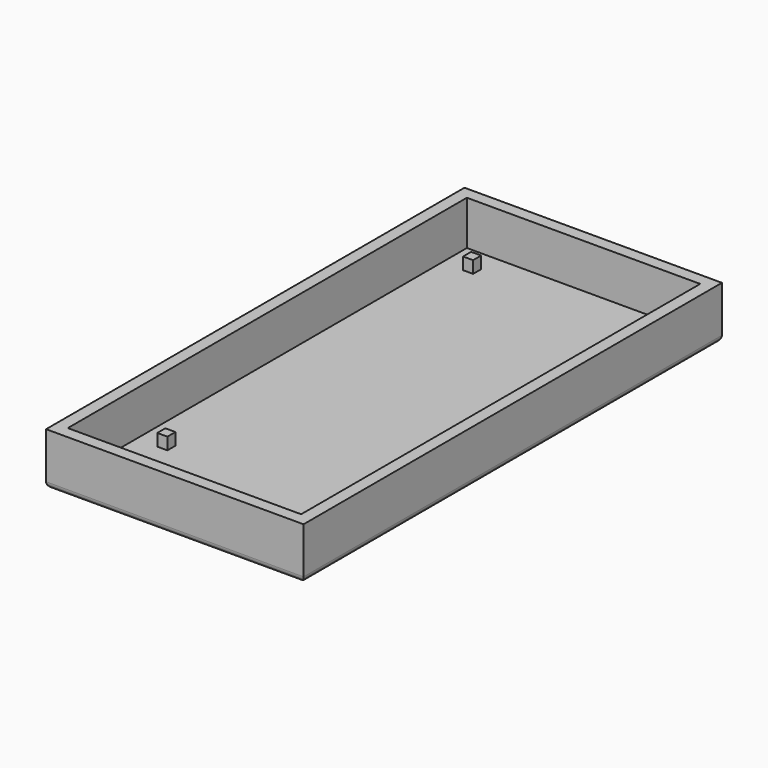
from build123d import *

# Parameters (mm, degrees)
SKETCH_W     = 64
SKETCH_H     = 130
PAD_DEPTH    = 13
SKETCH002_W  = 58
SKETCH002_H  = 124
POCKET_DEPTH = 11
SKETCH007_W  = 2.5
SKETCH007_H  = 2.5
PAD001_DEPTH = 3
FILLET_R     = 1.5


with BuildPart() as part:
    # Sketch → Pad (new body)
    with BuildSketch(Plane.XY):
        with Locations((4.5, 22)):
            Rectangle(SKETCH_W, SKETCH_H)
    extrude(amount=PAD_DEPTH)

    # Sketch002 → Pocket (cut)
    with BuildSketch(Plane.XY.offset(13)):
        with Locations((4.5, 22)):
            Rectangle(SKETCH002_W, SKETCH002_H)
    extrude(amount=-POCKET_DEPTH, mode=Mode.SUBTRACT)

    # Sketch007 → Pad001 (new body)
    with BuildSketch(Plane.XY.offset(2)):
        with Locations((-18, 77.5)):
            Rectangle(SKETCH007_W, SKETCH007_H)
        with Locations((27, 77.5)):
            Rectangle(SKETCH007_W, SKETCH007_H)
        with Locations((-18, -17.5)):
            Rectangle(SKETCH007_W, SKETCH007_H)
        with Locations((27, -17.5)):
            Rectangle(SKETCH007_W, SKETCH007_H)
    extrude(amount=PAD001_DEPTH)

    # Fillet
    fillet_edges = [part.edges().sort_by_distance(p)[0] for p in [
        (4.5, 87, 0),
        (-27.5, 22, 0),
        (36.5, 22, 0),
        (4.5, -43, 0),
    ]]
    fillet(fillet_edges, radius=FILLET_R)


solid = part.part
